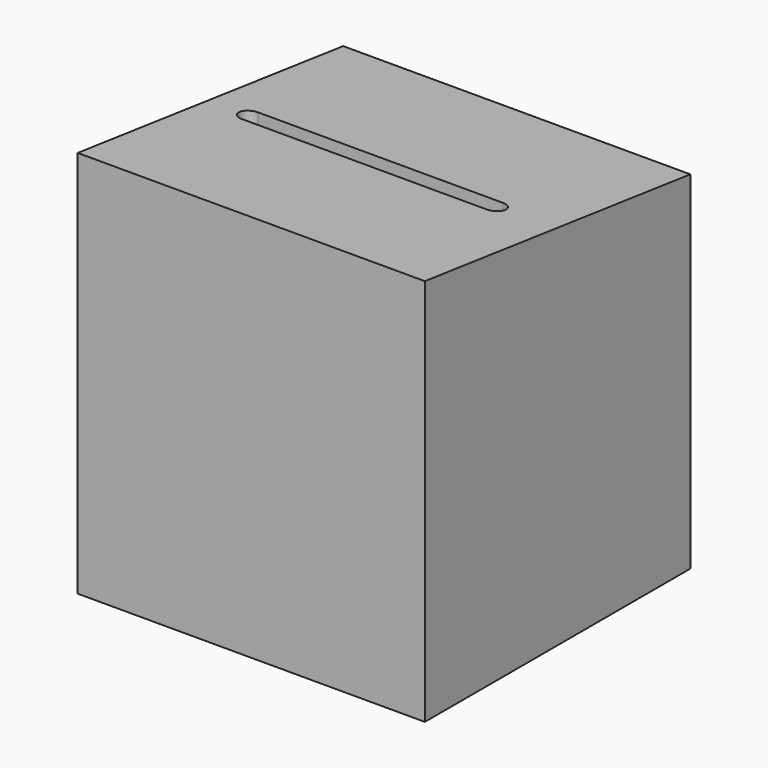
from build123d import *

# Parameters (mm, degrees)
F0_W          = 215.9
F0_H          = 241.3
F1_DEPTH      = 206.375
F4_DEPTH      = 25.4
F6_DEPTH      = 197.358
F6_DEPTH_BACK = 177.8
F8_W          = 120.65
F8_H          = 127
F9_DEPTH      = 15.24
F11_W         = 12.7
F11_H         = 115.57
F12_DEPTH     = 123.952


with BuildPart() as f1:
    # F0 (on Front) → F1 (new body)
    with BuildSketch(Plane.XZ):
        with Locations((14.1453973889, 5.0521753728)):
            Rectangle(F0_W, F0_H)
    extrude(amount=F1_DEPTH)

    # F3 (on offset) → F4 (cut)
    with BuildSketch(Plane.XY.offset(125.7021753728)):
        with BuildLine():
            Line((84.393295449, -98.425), (-68.006704551, -98.425))
            ThreePointArc((-68.006704551, -98.425), (-63.5165764904, -100.2848719395), (-61.656704551, -104.775))
            ThreePointArc((-61.656704551, -104.775), (-63.5165764904, -109.2651280605), (-68.006704551, -111.125))
            Line((-68.006704551, -111.125), (84.393295449, -111.125))
            ThreePointArc((84.393295449, -111.125), (78.043295449, -104.775), (84.393295449, -98.425))
        make_face()
        with BuildLine():
            Line((-68.006704551, -111.125), (-68.006704551, -98.425))
            ThreePointArc((-68.006704551, -98.425), (-74.356704551, -104.775), (-68.006704551, -111.125))
        make_face()
        with BuildLine():
            ThreePointArc((-61.656704551, -104.775), (-63.5165764904, -100.2848719395), (-68.006704551, -98.425))
            Line((-68.006704551, -98.425), (-68.006704551, -111.125))
            ThreePointArc((-68.006704551, -111.125), (-63.5165764904, -109.2651280605), (-61.656704551, -104.775))
        make_face()
        with BuildLine():
            ThreePointArc((90.743295449, -104.775), (88.8834235096, -100.2848719395), (84.393295449, -98.425))
            Line((84.393295449, -98.425), (84.393295449, -111.125))
            ThreePointArc((84.393295449, -111.125), (88.8834235096, -109.2651280605), (90.743295449, -104.775))
        make_face()
        with BuildLine():
            Line((84.393295449, -111.125), (84.393295449, -98.425))
            ThreePointArc((84.393295449, -98.425), (78.043295449, -104.775), (84.393295449, -111.125))
        make_face()
    extrude(amount=-F4_DEPTH, mode=Mode.SUBTRACT)

    # F5 (on Right) → F6 (cut, two sides)
    with BuildSketch(Plane.YZ) as f6_sk:
        Polygon((-206.375, 125.7021753728), (0, 100.3021753728), (13.3197874228, 98.0448980824), (13.3197874228, 125.7021753728), align=None)
    extrude(amount=-F6_DEPTH, mode=Mode.SUBTRACT)
    extrude(f6_sk.sketch, amount=F6_DEPTH_BACK, mode=Mode.SUBTRACT)


with BuildPart() as f9:
    # F8 (on offset) → F9 (new body)
    with BuildSketch(Plane(origin=(-93.8046026111, 0, 0), x_dir=(0, -1, 0), z_dir=(-1, 0, 0))):
        with Locations((112.741459161, -52.0978246272)):
            Rectangle(F8_W, F8_H)
    extrude(amount=F9_DEPTH)

    # F11 (on offset) → F12 (cut)
    with BuildSketch(Plane.XY.offset(11.4021753728)):
        with Locations((-100.1546026111, -112.741459161)):
            Rectangle(F11_W, F11_H)
    extrude(amount=-F12_DEPTH, mode=Mode.SUBTRACT)


solid = Compound([f1.part, f9.part])
